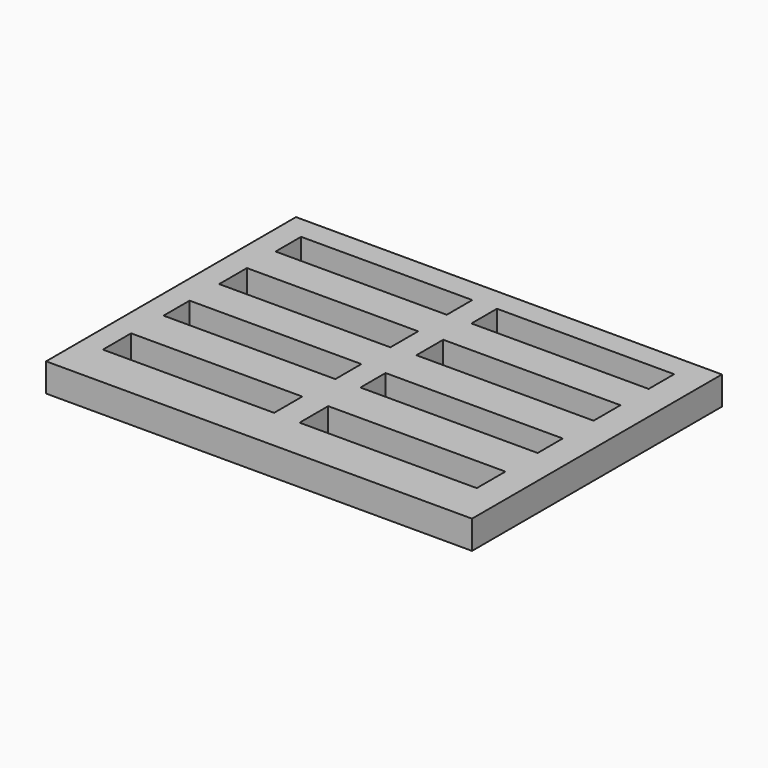
from build123d import *

# Parameters (mm, degrees)
F0_W     = 1905
F0_H     = 1397
F1_DEPTH = 127
F2_W     = 765.71583
F2_H     = 142.633289
F2_W_2   = 792.600095
F2_H_2   = 142.633319
F2_H_3   = 155.145049
F2_H_4   = 150.14036
F2_H_5   = 140.555978
F2_W_3   = 768.218152
F2_H_6   = 145.560652
F2_W_4   = 765.7084
F2_H_7   = 157.647371
F2_H_8   = 160.149634
F3_DEPTH = 127.001


with BuildPart() as f1:
    # F0 (on Top) → F1 (new body)
    with BuildSketch(Plane.XY):
        with Locations((-28.528064, 26.927372)):
            Rectangle(F0_W, F0_H)
    extrude(amount=F1_DEPTH)

    # F2 (on face) → F3 (cut, through all)
    with BuildSketch(Plane.XY.offset(127)):
        with Locations((-491.099898, 548.838452)):
            Rectangle(F2_W, F2_H)
        with Locations((396.300048, 551.340818)):
            Rectangle(F2_W_2, F2_H_2)
        with Locations((-491.099898, 239.799588)):
            Rectangle(F2_W, F2_H_3)
        with Locations((396.300048, 247.306608)):
            Rectangle(F2_W_2, F2_H_4)
        with Locations((396.300048, -70.277989)):
            Rectangle(F2_W_2, F2_H_5)
        with Locations((-492.351059, -72.780326)):
            Rectangle(F2_W_3, F2_H_6)
        with Locations((-498.613023, -399.548113)):
            Rectangle(F2_W_4, F2_H_7)
        with Locations((396.300048, -400.799245)):
            Rectangle(F2_W_2, F2_H_8)
    extrude(amount=-F3_DEPTH, mode=Mode.SUBTRACT)


solid = f1.part
